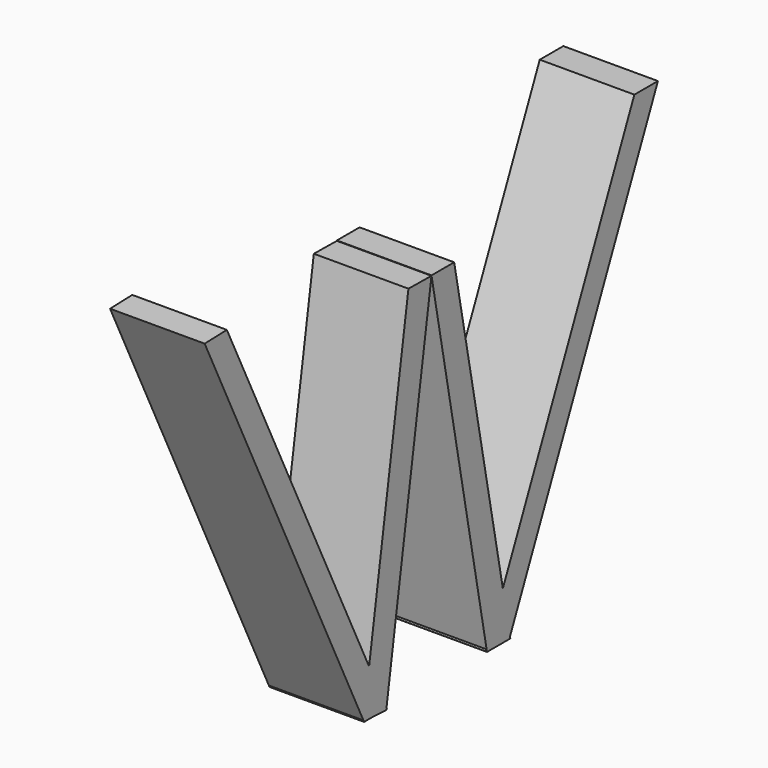
from build123d import *

# Parameters (mm, degrees)
F1_DEPTH = 25.4
F3_DEPTH = 25.4
F5_DEPTH = 25.4
F7_DEPTH = 25.4


with BuildPart() as f1:
    # F0 (on Right) → F1 (new body)
    with BuildSketch(Plane.YZ):
        Polygon((-68.670519, 55.875912), (-76.113306, 55.64091), (-22.605574, -55.515818), (-14.942871, -55.515818), align=None)
    extrude(amount=F1_DEPTH)

    # F2 (on Right) → F3 (join)
    with BuildSketch(Plane.YZ):
        Polygon((-22.850838, -55.280816), (-15.175458, -55.750825), (0, 40.729901), (-7.732669, 40.835682), align=None)
    extrude(amount=F3_DEPTH)


with BuildPart() as f5:
    # F4 (on Right) → F5 (new body)
    with BuildSketch(Plane.YZ):
        Polygon((7.618089, 40.835682), (0, 40.835682), (18.637602, -55.750825), (26.457652, -55.750825), align=None)
    extrude(amount=F5_DEPTH)

    # F6 (on Right) → F7 (join)
    with BuildSketch(Plane.YZ):
        Polygon((18.317102, -55.515818), (26.225064, -55.515818), (75.998731, 55.875912), (68.090769, 55.875912), align=None)
    extrude(amount=F7_DEPTH)


solid = Compound([f1.part, f5.part])
